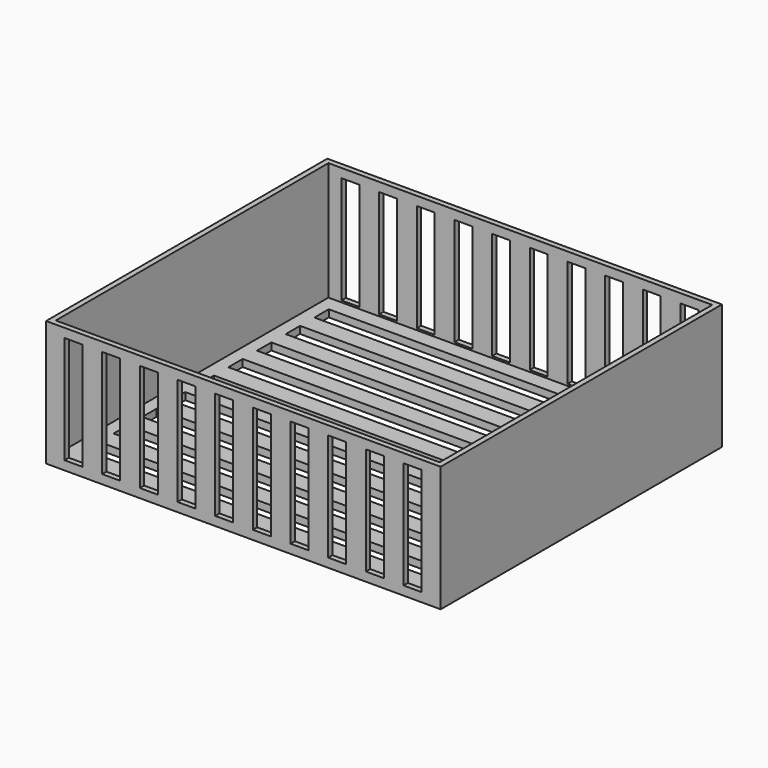
from build123d import *

# Parameters (mm, degrees)
F0_W     = 110
F0_H     = 98
F0_W_2   = 107
F0_H_2   = 95
F0_W_3   = 100
F0_H_3   = 5
F1_DEPTH = 2
F2_DEPTH = 35
F3_W     = 5
F3_H     = 30
F4_DEPTH = 150


with BuildPart() as f1:
    # F0 (on Top) → F1 (new body)
    with BuildSketch(Plane.XY):
        Rectangle(F0_W, F0_H)
        Rectangle(F0_W_2, F0_H_2, mode=Mode.SUBTRACT)
        Rectangle(F0_W_2, F0_H_2)
        with Locations((0, -39.2500515282)):
            Rectangle(F0_W_3, F0_H_3, mode=Mode.SUBTRACT)
        with Locations((0, -29.2500515282)):
            Rectangle(F0_W_3, F0_H_3, mode=Mode.SUBTRACT)
        with Locations((0, -19.2500515282)):
            Rectangle(F0_W_3, F0_H_3, mode=Mode.SUBTRACT)
        with Locations((0, -9.2500515282)):
            Rectangle(F0_W_3, F0_H_3, mode=Mode.SUBTRACT)
        with Locations((0, 0.7499484718)):
            Rectangle(F0_W_3, F0_H_3, mode=Mode.SUBTRACT)
        with Locations((0, 10.7499484718)):
            Rectangle(F0_W_3, F0_H_3, mode=Mode.SUBTRACT)
        with Locations((0, 20.7499484718)):
            Rectangle(F0_W_3, F0_H_3, mode=Mode.SUBTRACT)
        with Locations((0, 30.7499484718)):
            Rectangle(F0_W_3, F0_H_3, mode=Mode.SUBTRACT)
        with Locations((0, 40.7499484718)):
            Rectangle(F0_W_3, F0_H_3, mode=Mode.SUBTRACT)
    extrude(amount=F1_DEPTH)

    # F0 (on Top) → F2 (join)
    with BuildSketch(Plane.XY):
        Rectangle(F0_W, F0_H)
        Rectangle(F0_W_2, F0_H_2, mode=Mode.SUBTRACT)
    extrude(amount=F2_DEPTH)

    # F3 (on face) → F4 (cut)
    with BuildSketch(Plane.XZ.offset(49)):
        with Locations((-36.8548509181, 17.5)):
            Rectangle(F3_W, F3_H)
        with Locations((-47.3548509181, 17.5)):
            Rectangle(F3_W, F3_H)
        with Locations((-26.3548509181, 17.5)):
            Rectangle(F3_W, F3_H)
        with Locations((-15.8548509181, 17.5)):
            Rectangle(F3_W, F3_H)
        with Locations((-5.3548509181, 17.5)):
            Rectangle(F3_W, F3_H)
        with Locations((5.1451490819, 17.5)):
            Rectangle(F3_W, F3_H)
        with Locations((15.6451490819, 17.5)):
            Rectangle(F3_W, F3_H)
        with Locations((26.1451490819, 17.5)):
            Rectangle(F3_W, F3_H)
        with Locations((36.6451490819, 17.5)):
            Rectangle(F3_W, F3_H)
        with Locations((47.1451490819, 17.5)):
            Rectangle(F3_W, F3_H)
    extrude(amount=-F4_DEPTH, mode=Mode.SUBTRACT)


solid = f1.part
